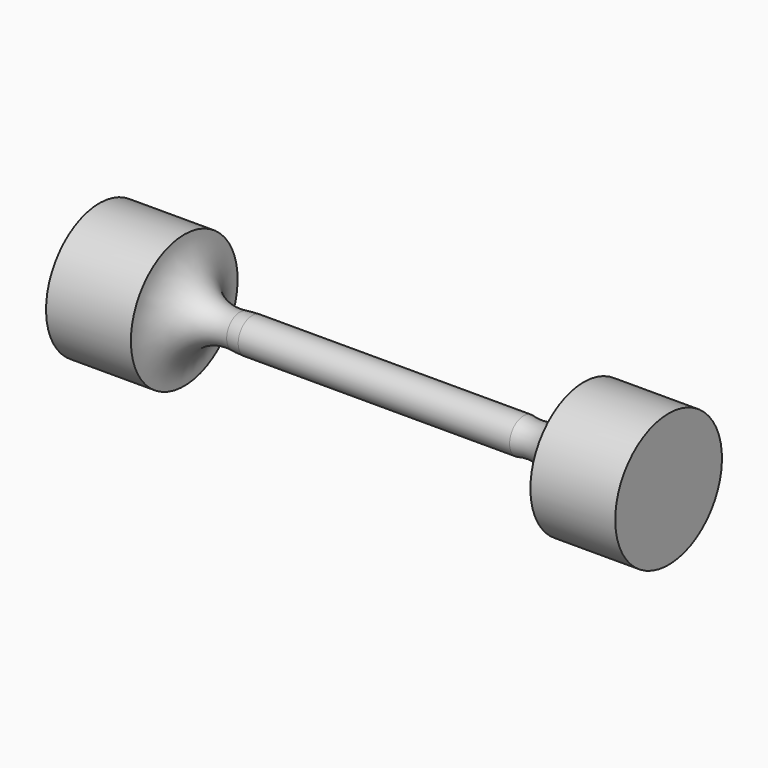
from build123d import *


with BuildPart() as f1:
    # F0 (on Front) → F1 (revolve)
    with BuildSketch(Plane.XZ):
        with BuildLine():
            Line((10, 1.25), (0, 1.25))
            Line((0, 1.25), (-9.448913, 1.25))
            ThreePointArc((-9.448913, 1.25), (-9.887086, 1.234864), (-10.323171, 1.189529))
            ThreePointArc((-10.323171, 1.189529), (-13.153307, 2.056432), (-14.313724, 4.779412))
            Line((-14.313724, 4.779412), (-20.392155, 4.779412))
            Line((-20.392155, 4.779412), (-20.392155, 0))
            Line((-20.392155, 0), (0, 0))
            Line((0, 0), (20.392155, 0))
            Line((20.392155, 0), (20.392155, 4.779412))
            Line((20.392155, 4.779412), (14.313724, 4.779412))
            ThreePointArc((14.313724, 4.779412), (13.028515, 1.949352), (10, 1.25))
        make_face()
    revolve(axis=Axis((-10.196077, 0, 0), (1, 0, 0)))


solid = f1.part
